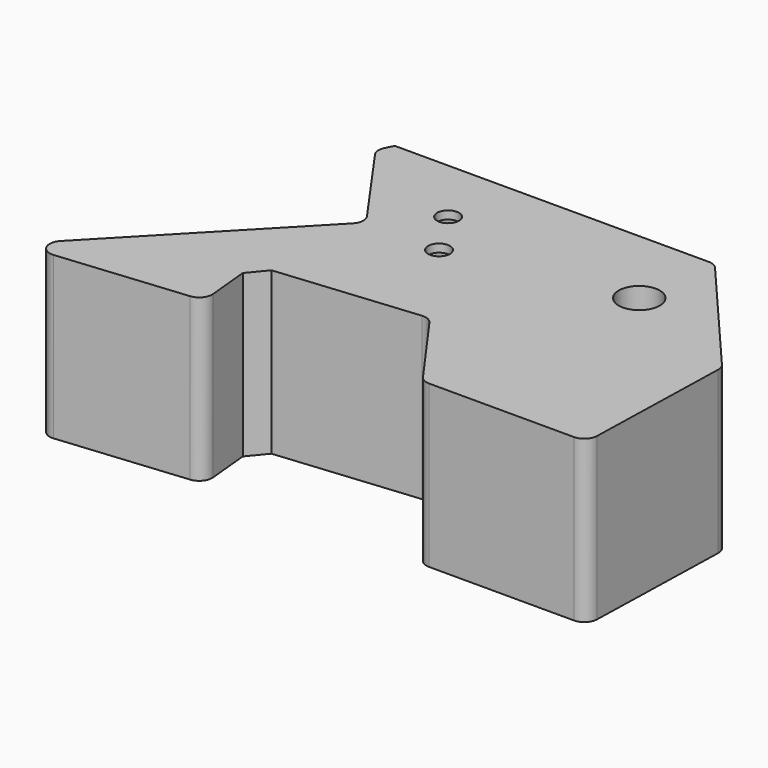
from build123d import *

# Parameters (mm, degrees)
F0_R     = 6.35
F1_DEPTH = 50
F2_R     = 4
F3_T     = -2.5
F5_D     = 6.7564
F6_SIZE  = 5


with BuildPart() as f1:
    # F0 (on Top) → F1 (new body)
    with BuildSketch(Plane.XY):
        Polygon((49.709592275, 49.0236406618), (-49.350407725, 49.0236406618), (-51.6386922998, 44.4470657872), (-29.6711277494, 13.3263486253), (-88.8431668297, -48.1600951648), (-34.8197797575, -42.9655389343), (-36.9358653545, -20.9582477999), (13.6309133433, -16.0960577452), (32.8233957422, -42.9655389343), (83.6233957422, -42.9655389343), (84.9492279691, 7.8344567721), align=None)
        with Locations((46.5822630314, 23.7201556859)):
            Circle(F0_R, mode=Mode.SUBTRACT)
    extrude(amount=F1_DEPTH)

    # F2
    f2_edges = [f1.edges().sort_by_distance(p)[0] for p in [
        (84.949228, 7.834457, 25),
        (83.623396, -42.965539, 25),
        (-34.81978, -42.965539, 25),
        (32.823396, -42.965539, 25),
        (-88.843167, -48.160095, 25),
        (49.709592, 49.023641, 25),
        (-29.671128, 13.326349, 25),
        (-51.638692, 44.447066, 25),
        (13.630913, -16.096058, 25),
    ]]
    fillet(f2_edges, radius=F2_R)

    # F3
    f3_openings = [f1.faces().sort_by_distance(p)[0] for p in [
        (13.724729, 2.432943, 0),
    ]]
    offset(amount=F3_T, openings=f3_openings, kind=Kind.INTERSECTION)

    # F5 (through all)
    with Locations(Plane.XY.offset(50)):
        with Locations((-6.9581352872, 13.156432332), (-16.0837286401, 28.0593003633)):
            Hole(F5_D / 2)

    # F6
    f6_edges = [f1.edges().sort_by_distance(p)[0] for p in [
        (-36.935865, -20.958248, 25),
    ]]
    chamfer(f6_edges, length=F6_SIZE)


solid = f1.part
